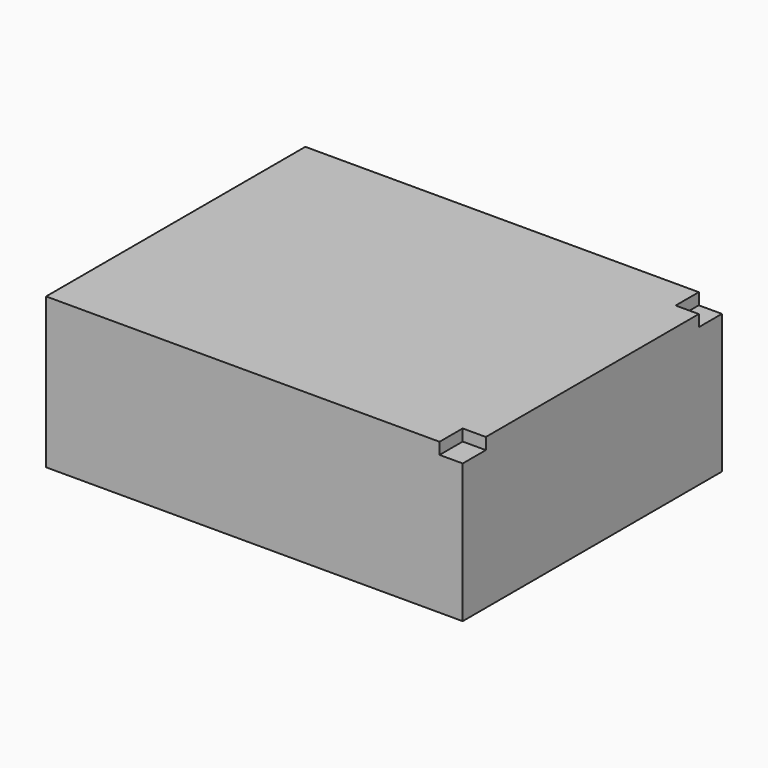
from build123d import *

# Parameters (mm, degrees)
F0_W     = 36
F0_H     = 28
F1_DEPTH = 13
F2_W     = 2
F2_H     = 2.5
F3_DEPTH = 1


with BuildPart() as f1:
    # F0 (on Top) → F1 (new body)
    with BuildSketch(Plane.XY):
        Rectangle(F0_W, F0_H)
    extrude(amount=F1_DEPTH)

    # F2 (on face) → F3 (cut)
    with BuildSketch(Plane.XY.offset(13)):
        with Locations((17, -12.75)):
            Rectangle(F2_W, F2_H)
        with Locations((17, 12.75)):
            Rectangle(F2_W, F2_H)
    extrude(amount=-F3_DEPTH, mode=Mode.SUBTRACT)


solid = f1.part
